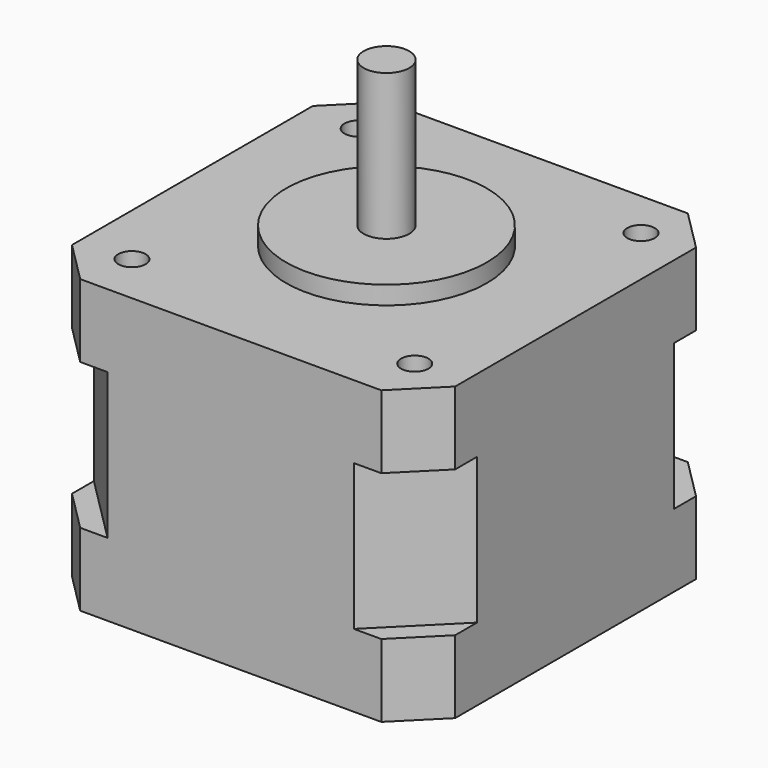
from build123d import *

# Parameters (mm, degrees)
PAD_DEPTH    = 8
PAD001_DEPTH = 16
PAD002_DEPTH = 8
SKETCH004_R  = 11
PAD003_DEPTH = 2
SKETCH005_R  = 2.5
PAD004_DEPTH = 16
SKETCH006_R  = 1.5
POCKET_DEPTH = 5


with BuildPart() as part:
    # Sketch → Pad (new body)
    with BuildSketch(Plane.XY):
        Polygon((4.5, -4.5), (37.5, -4.5), (42, 0), (42, 33), (37.5, 37.5), (4.5, 37.5), (0, 33), (0, 0), align=None)
    extrude(amount=PAD_DEPTH)

    # Sketch002 (on Face10 of Pad) → Pad001 (join)
    with BuildSketch(Plane.XY.offset(8)):
        Polygon((7.5, 37.5), (34.5, 37.5), (42, 30), (42, 3), (34.5, -4.5), (7.5, -4.5), (0, 3), (0, 30), align=None)
    extrude(amount=PAD001_DEPTH)

    # Sketch003 (on Face15 of Pad001) → Pad002 (join)
    with BuildSketch(Plane.XY.offset(24)):
        Polygon((4.5, 37.5), (37.5, 37.5), (42, 33), (42, 0), (37.5, -4.5), (4.5, -4.5), (0, 0), (0, 33), align=None)
    extrude(amount=PAD002_DEPTH)

    # Sketch004 (on Face7 of Pad002) → Pad003 (join)
    with BuildSketch(Plane.XY.offset(32)):
        with Locations((21.15, 16.65)):
            Circle(SKETCH004_R)
    extrude(amount=PAD003_DEPTH)

    # Sketch005 (on Face27 of Pad003) → Pad004 (join)
    with BuildSketch(Plane.XY.offset(34)):
        with Locations((21.15, 16.65)):
            Circle(SKETCH005_R)
    extrude(amount=PAD004_DEPTH)

    # Sketch006 (on Face7 of Pad004) → Pocket (cut)
    with BuildSketch(Plane.XY.offset(32)):
        with Locations((5.65, 1.15)):
            Circle(SKETCH006_R)
        with Locations((36.65, 1.15)):
            Circle(SKETCH006_R)
        with Locations((36.65, 32.15)):
            Circle(SKETCH006_R)
        with Locations((5.65, 32.15)):
            Circle(SKETCH006_R)
    extrude(amount=-POCKET_DEPTH, mode=Mode.SUBTRACT)


with BuildPart() as part_1:
    # Body placement: moved
    add(part.part.moved(Location((-21.15, -16.65, -57.5))))


solid = part_1.part
